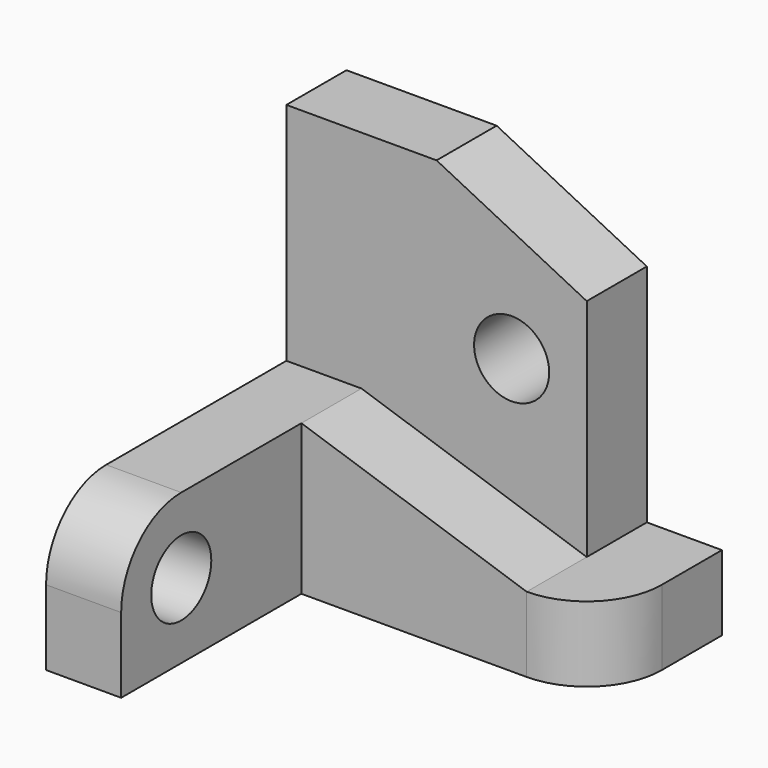
from build123d import *

# Parameters (mm, degrees)
F1_DEPTH  = 10
F3_DEPTH  = 10
F4_R      = 5
F5_DEPTH  = 10
F6_W      = 10
F6_H      = 20
F7_DEPTH  = 30
F8_R      = 10
F9_R      = 5
F10_DEPTH = 10


with BuildPart() as f1:
    # F0 (on Front) → F1 (new body)
    with BuildSketch(Plane.XZ):
        Polygon((0, 50), (0, 0), (50, 0), (50, 10), (40, 10), (40, 40), (20, 50), align=None)
    extrude(amount=F1_DEPTH)

    # F2 (on face) → F3 (join)
    with BuildSketch(Plane.XZ.offset(10)):
        Polygon((0, 20), (0, 0), (50, 0), (50, 10), (40, 10), (10, 20), align=None)
    extrude(amount=F3_DEPTH)

    # F4 (on face) → F5 (cut, through all)
    with BuildSketch(Plane.XZ.offset(10)):
        with Locations((30, 30)):
            Circle(F4_R)
    extrude(amount=-F5_DEPTH, mode=Mode.SUBTRACT)

    # F6 (on face) → F7 (join)
    with BuildSketch(Plane.XZ.offset(20)):
        with Locations((5, 10)):
            Rectangle(F6_W, F6_H)
    extrude(amount=F7_DEPTH)

    # F8
    f8_edges = [f1.edges().sort_by_distance(p)[0] for p in [
        (50, -20, 5),
        (5, -50, 20),
    ]]
    fillet(f8_edges, radius=F8_R)

    # F9 (on face) → F10 (cut, through all)
    with BuildSketch(Plane.YZ.offset(10)):
        with Locations((-40, 10)):
            Circle(F9_R)
    extrude(amount=-F10_DEPTH, mode=Mode.SUBTRACT)


solid = f1.part
